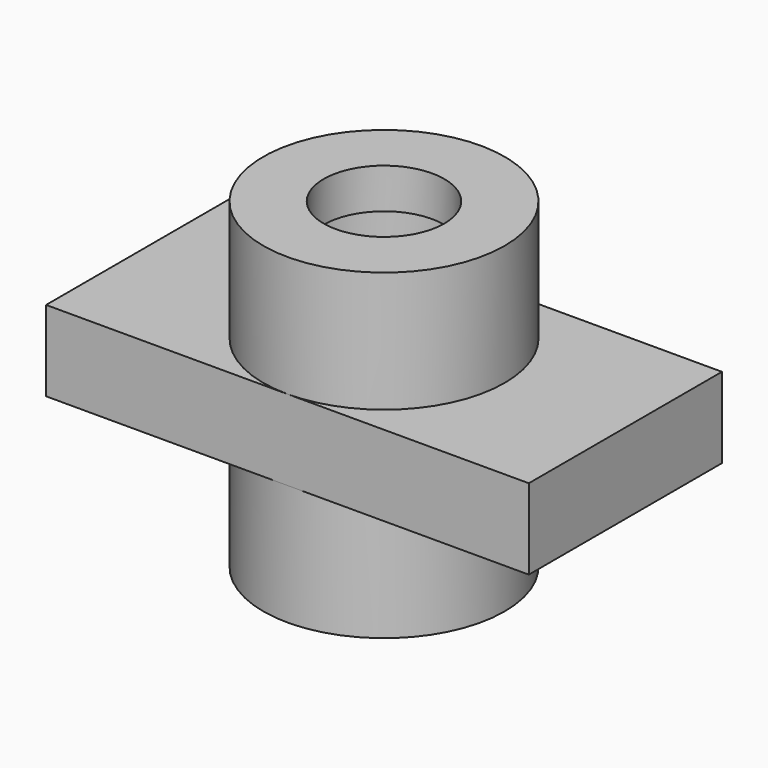
from build123d import *

# Parameters (mm, degrees)
F0_R     = 19.05
F0_R_2   = 9.525
F1_DEPTH = 38.1
F2_R     = 19.05
F2_R_2   = 12.7
F3_DEPTH = 6.35
F4_R     = 19.05
F4_R_2   = 9.525
F5_DEPTH = 6.35
F6_W     = 38.1
F6_H     = 12.7
F7_DEPTH = 38.1
F8_R     = 9.525
F9_DEPTH = 50.801


with BuildPart() as f1:
    # F0 (on Top) → F1 (new body)
    with BuildSketch(Plane.XY):
        Circle(F0_R)
        Circle(F0_R_2, mode=Mode.SUBTRACT)
    extrude(amount=F1_DEPTH)

    # F2 (on face) → F3 (join)
    with BuildSketch(Plane.XY.offset(38.1)):
        Circle(F2_R)
        Circle(F2_R_2, mode=Mode.SUBTRACT)
    extrude(amount=F3_DEPTH)

    # F4 (on face) → F5 (join)
    with BuildSketch(Plane.XY.offset(44.45)):
        Circle(F4_R)
        Circle(F4_R_2, mode=Mode.SUBTRACT)
    extrude(amount=F5_DEPTH)

    # F6 (on Right) → F7 (join, symmetric)
    with BuildSketch(Plane.YZ):
        with Locations((0, 25.4)):
            Rectangle(F6_W, F6_H)
    extrude(amount=F7_DEPTH, both=True)

    # F8 (on face) → F9 (cut, through all)
    with BuildSketch(Plane.XY.offset(50.8)):
        Circle(F8_R)
    extrude(amount=-F9_DEPTH, mode=Mode.SUBTRACT)


solid = f1.part
